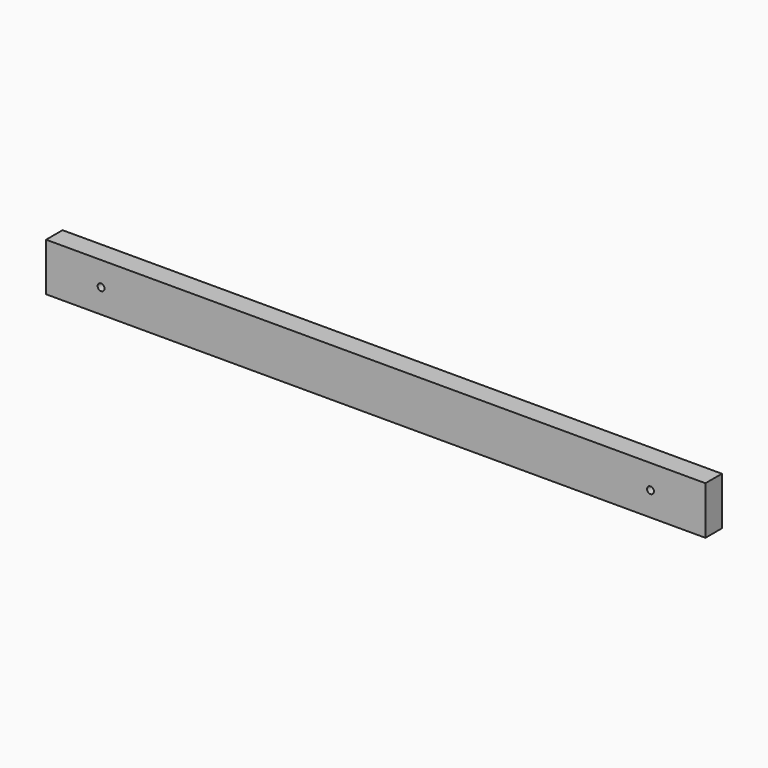
from build123d import *

# Parameters (mm, degrees)
F0_W     = 38.1
F0_H     = 88.9
F1_DEPTH = 1219.2
F2_R     = 6.35
F3_DEPTH = 38.101
F4_R     = 6.35
F5_DEPTH = 38.101


with BuildPart() as f1:
    # F0 (on Right) → F1 (new body)
    with BuildSketch(Plane.YZ):
        Rectangle(F0_W, F0_H)
    extrude(amount=F1_DEPTH)

    # F2 (on face) → F3 (cut, through all)
    with BuildSketch(Plane.XZ.offset(19.05)):
        with Locations((101.6, 0)):
            Circle(F2_R)
    extrude(amount=-F3_DEPTH, mode=Mode.SUBTRACT)

    # F4 (on face) → F5 (cut, through all)
    with BuildSketch(Plane.XZ.offset(19.05)):
        with Locations((1117.6, 0)):
            Circle(F4_R)
    extrude(amount=-F5_DEPTH, mode=Mode.SUBTRACT)


solid = f1.part
